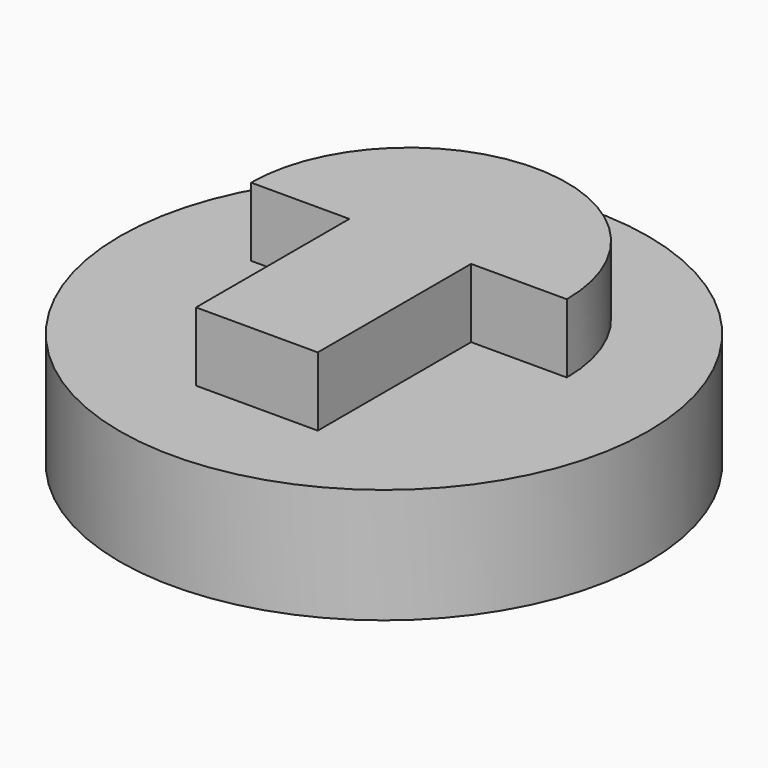
from build123d import *

# Parameters (mm, degrees)
F0_R     = 11.5
F1_DEPTH = 5
F3_DEPTH = 3


with BuildPart() as f1:
    # F0 (on Top) → F1 (new body)
    with BuildSketch(Plane.XY):
        with Locations((-36.432832, 37.810016)):
            Circle(F0_R)
    extrude(amount=F1_DEPTH)

    # F2 (on face) → F3 (join)
    with BuildSketch(Plane.XY.offset(5)):
        with BuildLine():
            Line((-33.734817, 39.177787), (-29.566738, 39.177787))
            ThreePointArc((-29.566738, 39.177787), (-36.440268, 46.051317), (-43.313798, 39.177787))
            Line((-43.313798, 39.177787), (-39.035402, 39.177787))
            Line((-39.035402, 39.177787), (-39.035402, 30.832665))
            Line((-39.035402, 30.832665), (-33.734817, 30.832665))
            Line((-33.734817, 30.832665), (-33.734817, 39.177787))
        make_face()
    extrude(amount=F3_DEPTH)


solid = f1.part
